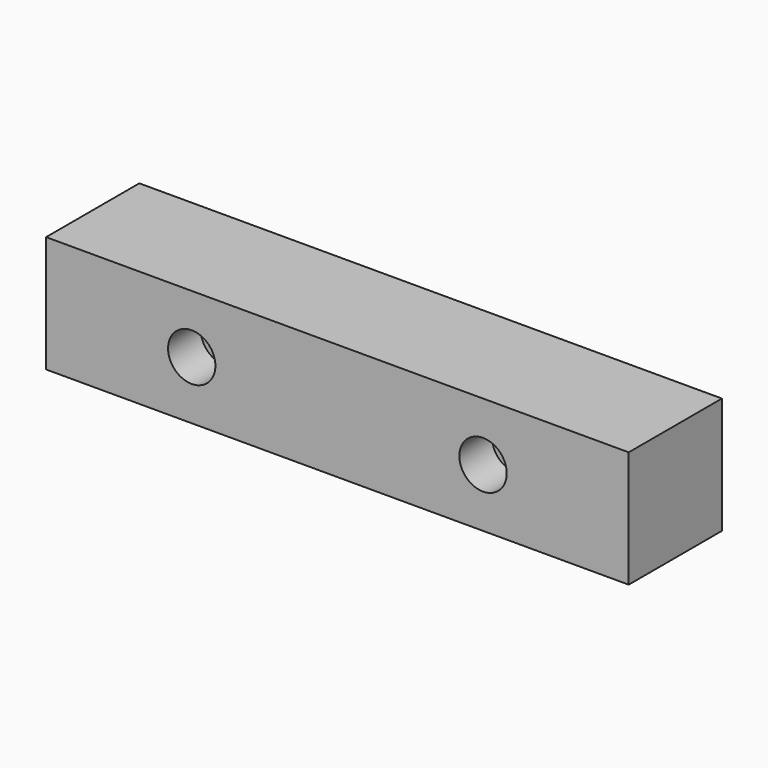
from build123d import *

# Parameters (mm, degrees)
F0_W           = 254
F0_H           = 50.8
F1_DEPTH       = 50.8
F3_D           = 13.4874
F3_DEPTH       = 25.4
F3_CBORE_D     = 20.6375
F3_CBORE_DEPTH = 17.78
F5_D           = 13.4874
F5_DEPTH       = 25.4
F5_CBORE_D     = 20.6375
F5_CBORE_DEPTH = 17.78


with BuildPart() as f1:
    # F0 (on Front) → F1 (new body)
    with BuildSketch(Plane.XZ):
        Rectangle(F0_W, F0_H)
    extrude(amount=F1_DEPTH)

    # F3
    with Locations(Plane(origin=(0, 0, 0), x_dir=(-1, 0, 0), z_dir=(0, 1, 0))):
        with Locations((-63.5, 0), (63.5, 0)):
            CounterBoreHole(F3_D / 2, F3_CBORE_D / 2, F3_CBORE_DEPTH, depth=F3_DEPTH)

    # F5
    with Locations(Plane.XZ.offset(50.8)):
        with Locations((-63.5, 0), (63.5, 0)):
            CounterBoreHole(F5_D / 2, F5_CBORE_D / 2, F5_CBORE_DEPTH, depth=F5_DEPTH)


solid = f1.part
